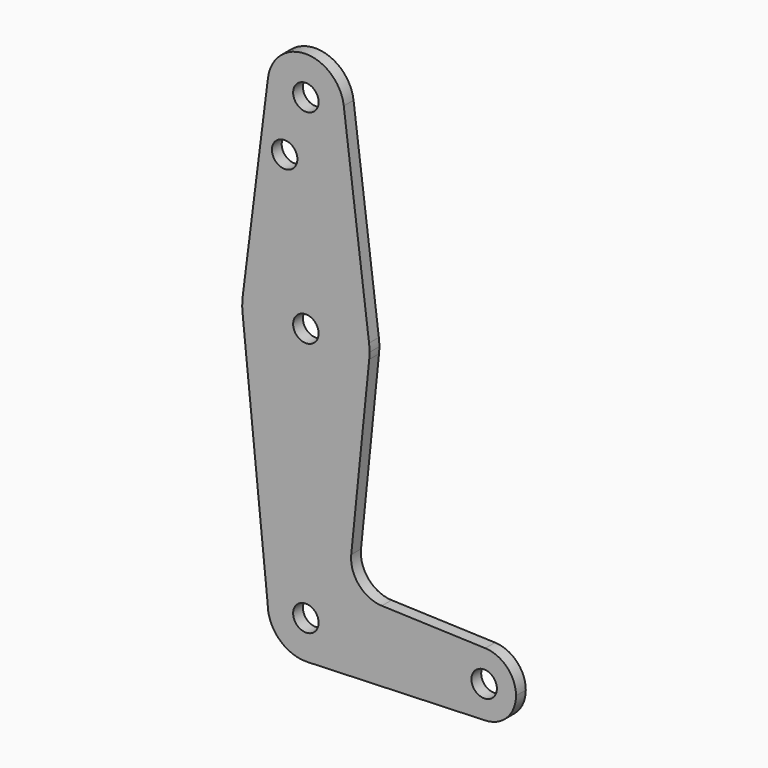
from build123d import *

# Parameters (mm, degrees)
F0_R     = 3.175
F1_DEPTH = 3.048


with BuildPart() as f1:
    # F0 (on Front) → F1 (new body)
    with BuildSketch(Plane.XZ):
        with BuildLine():
            ThreePointArc((44.733482, -7.932436), (50.162007, -5.511523), (52.3875, 0))
            ThreePointArc((52.3875, 0), (50.162007, 5.511523), (44.733482, 7.932436))
            ThreePointArc((44.733482, 7.932436), (36.5125, 0), (44.733482, -7.932436))
        make_face()
        with Locations((44.45, 0)):
            Circle(F0_R, mode=Mode.SUBTRACT)
        with BuildLine():
            ThreePointArc((44.733482, -7.932436), (36.5125, 0), (44.733482, 7.932436))
            Line((44.733482, 7.932436), (18.933378, 8.854457))
            ThreePointArc((18.933378, 8.854457), (13.224973, 11.574881), (11.307577, 17.600674))
            Line((11.307577, 17.600674), (15.794203, 61.90038))
            ThreePointArc((15.794203, 61.90038), (0, 47.625), (-15.794203, 61.90038))
            Line((-15.794203, 61.90038), (-9.525, 0))
            ThreePointArc((-9.525, 0), (0, 9.525), (9.525, 0))
            ThreePointArc((9.525, 0), (6.854408, -6.613827), (0.340179, -9.518923))
            Line((0.340179, -9.518923), (44.733482, -7.932436))
        make_face()
        with BuildLine():
            ThreePointArc((-9.525, 0), (-6.613827, -6.854408), (0.340179, -9.518923))
            ThreePointArc((0.340179, -9.518923), (6.854408, -6.613827), (9.525, 0))
            ThreePointArc((9.525, 0), (0, 9.525), (-9.525, 0))
        make_face()
        Circle(F0_R, mode=Mode.SUBTRACT)
        with BuildLine():
            ThreePointArc((-15.794203, 61.90038), (0, 47.625), (15.794203, 61.90038))
            ThreePointArc((15.794203, 61.90038), (15.854788, 62.699171), (15.875, 63.5))
            ThreePointArc((15.875, 63.5), (15.843841, 64.494139), (15.750488, 65.484375))
            ThreePointArc((15.750488, 65.484375), (0, 79.375), (-15.750488, 65.484375))
            ThreePointArc((-15.750488, 65.484375), (-15.873819, 63.693615), (-15.794203, 61.90038))
        make_face()
        with Locations((0, 63.5)):
            Circle(F0_R, mode=Mode.SUBTRACT)
        with BuildLine():
            Line((-9.450293, 115.490625), (-15.750488, 65.484375))
            ThreePointArc((-15.750488, 65.484375), (0, 79.375), (15.750488, 65.484375))
            Line((15.750488, 65.484375), (9.450293, 115.490625))
            ThreePointArc((9.450293, 115.490625), (9.506305, 114.896483), (9.525, 114.3))
            ThreePointArc((9.525, 114.3), (-0.596483, 104.793695), (-9.450293, 115.490625))
        make_face()
        with Locations((-5.294245, 100.0252)):
            Circle(F0_R, mode=Mode.SUBTRACT)
        with BuildLine():
            ThreePointArc((9.450293, 115.490625), (0, 123.825), (-9.450293, 115.490625))
            ThreePointArc((-9.450293, 115.490625), (-0.596483, 104.793695), (9.525, 114.3))
            ThreePointArc((9.525, 114.3), (9.506305, 114.896483), (9.450293, 115.490625))
        make_face()
        with Locations((0, 114.3)):
            Circle(F0_R, mode=Mode.SUBTRACT)
    extrude(amount=F1_DEPTH)


solid = f1.part
